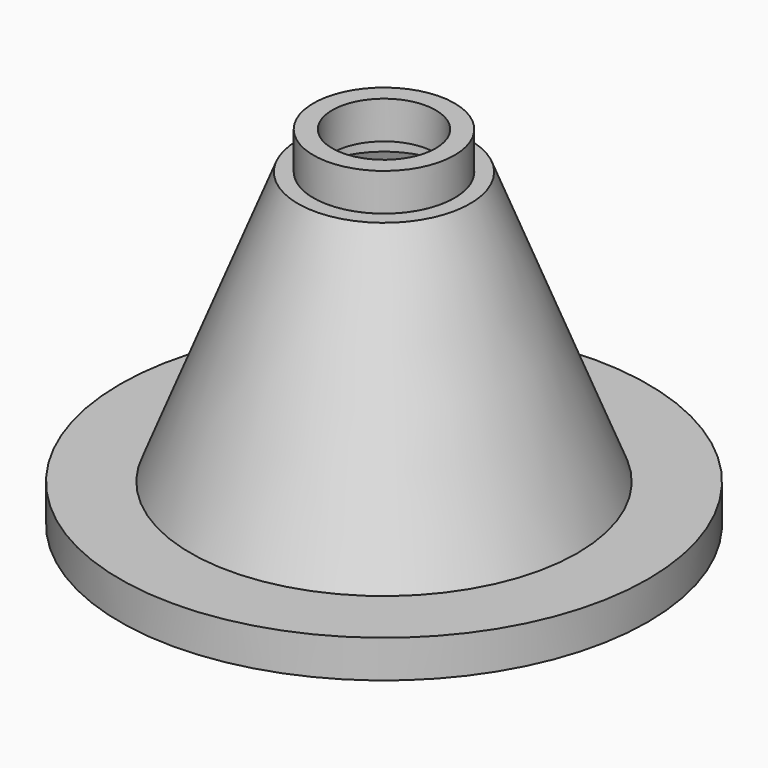
from build123d import *

# Parameters (mm, degrees)
F2_R     = 190.5
F2_R_2   = 139.7
F3_DEPTH = 101.6


with BuildPart() as f1:
    # F0 (on Front) → F1 (revolve)
    with BuildSketch(Plane.XZ):
        Polygon((214.885982, 546.593298), (214.885982, 597.393298), (172.962602, 597.393298), (-117.191854, -139.206702), (-307.691854, -139.206702), (-307.691854, -240.806702), (-102.614018, -240.806702), (207.551091, 546.593298), align=None)
    revolve(axis=Axis((405.385982, 0, 135.375319), (0, 0, -1)))


with BuildPart() as f3:
    # F2 (on face) → F3 (new body)
    with BuildSketch(Plane.XY.offset(597.393298)):
        with Locations((405.385982, 0)):
            Circle(F2_R)
        with Locations((405.385982, 0)):
            Circle(F2_R_2, mode=Mode.SUBTRACT)
    extrude(amount=F3_DEPTH)


solid = Compound([f1.part, f3.part])
